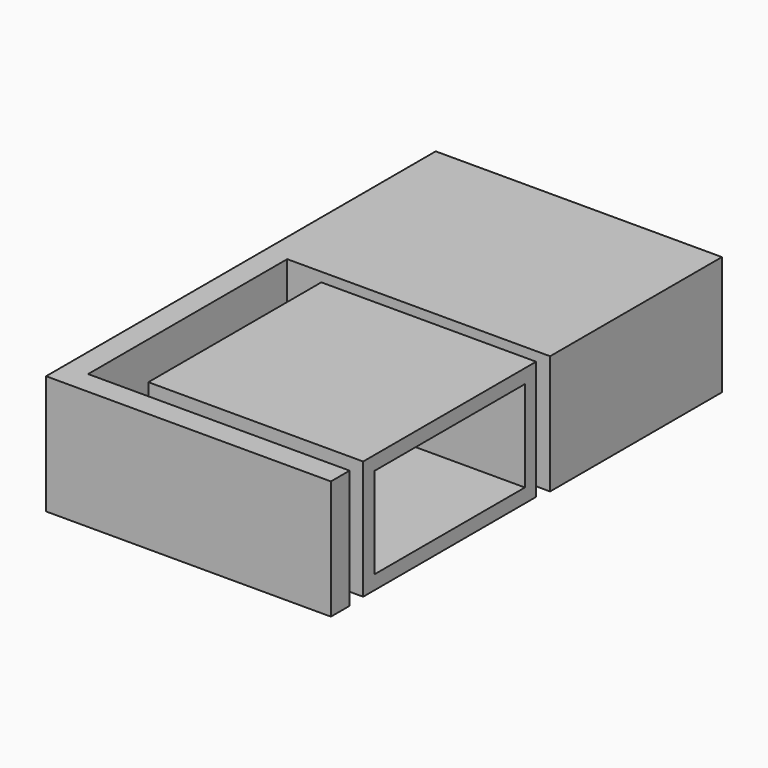
from build123d import *

# Parameters (mm, degrees)
SKETCH001_W     = 46
SKETCH001_H     = 46.3
PAD_DEPTH       = 25.5
SKETCH_W        = 43
SKETCH_H        = 40.3
POCKET_DEPTH    = 19.5
SKETCH002_W     = 40.3
SKETCH002_H     = 43
PAD001_DEPTH    = 19.5
PAD002_DEPTH    = 25.5
SKETCH004_W     = 40.3
SKETCH004_H     = 43
POCKET001_DEPTH = 19.5


with BuildPart() as obj1:
    # Sketch001 → Pad (new body)
    with BuildSketch(Plane.XY):
        with Locations((20, 20.15)):
            Rectangle(SKETCH001_W, SKETCH001_H)
    extrude(amount=PAD_DEPTH)

    # Sketch → Pocket (cut)
    with BuildSketch(Plane.XY.offset(3)):
        with Locations((21.5, 20.15)):
            Rectangle(SKETCH_W, SKETCH_H)
    extrude(amount=POCKET_DEPTH, mode=Mode.SUBTRACT)


with BuildPart() as obj2:
    # Sketch002 → Pad001 (new body)
    with BuildSketch(Plane.XY):
        with Locations((20.15, 67.8)):
            Rectangle(SKETCH002_W, SKETCH002_H)
    extrude(amount=PAD001_DEPTH)


with BuildPart() as obj2_1:
    # Body001 placement: moved
    add(obj2.part.moved(Location((0, 0, 3))))


with BuildPart() as body002:
    # Sketch003 → Pad002 (new body)
    with BuildSketch(Plane.XY):
        Polygon((43.593663, 46.3), (43.593663, 92.3), (-17.706337, 92.3), (-17.706337, -12), (43.293663, -12), (43.293663, -7), (-12.706337, -7), (-12.706337, 46.3), align=None)
    extrude(amount=PAD002_DEPTH)

    # Sketch004 → Pocket001 (cut)
    with BuildSketch(Plane.XY.offset(3)):
        with Locations((20.15, 67.8)):
            Rectangle(SKETCH004_W, SKETCH004_H)
    extrude(amount=POCKET001_DEPTH, mode=Mode.SUBTRACT)


solid = Compound([obj1.part, obj2_1.part, body002.part])
